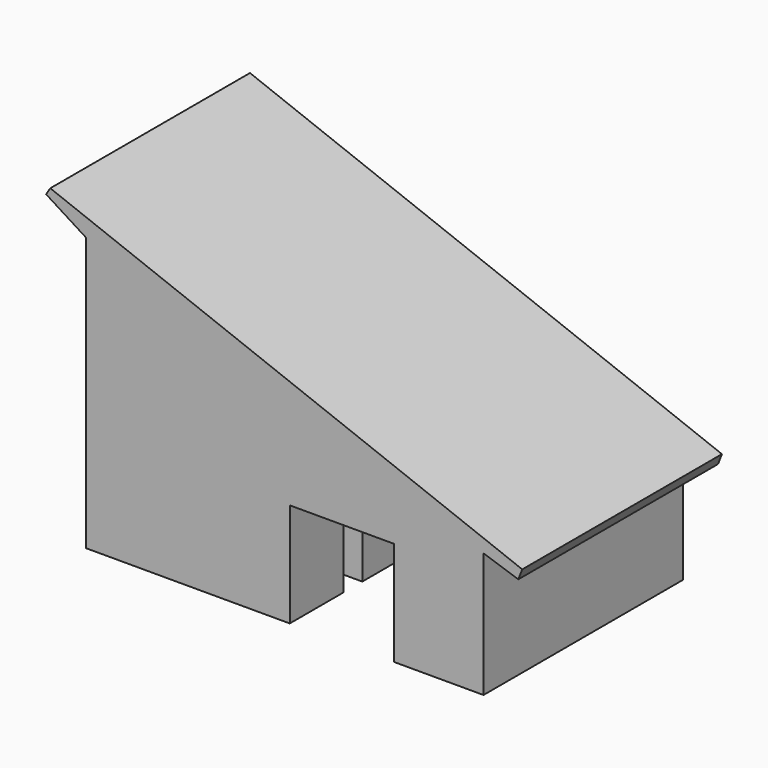
from build123d import *

# Parameters (mm, degrees)
F0_W     = 222.1541649566
F0_H     = 100
F0_W_2   = 395.4195475671
F0_W_3   = 188.4643873005
F0_W_4   = 100
F0_H_2   = 361.5790828629
F0_H_3   = 156.8592581168
F0_H_4   = 152.8593497919
F0_W_5   = 170.2914773738
F0_W_6   = 779.0951247443
F0_H_5   = 292.5978301498
F1_DEPTH = 500
F2_W     = 1910.4056636256
F2_H     = 1200
F3_DEPTH = 100
F5_DEPTH = 1200


with BuildPart() as f1:
    # F0 (on Top) → F1 (new body)
    with BuildSketch(Plane.XY):
        Polygon((-1039.4755020642, -481.5616590203), (-939.4755020642, -481.5616590203), (-939.4755020642, 0), (-939.4755020642, 100), (-939.4755020642, 518.4383409797), (-1039.4755020642, 518.4383409797), align=None)
        Polygon((-710.1491273506, -481.5616590203), (-939.4755020642, -481.5616590203), (-1039.4755020642, -481.5616590203), (-1039.4755020642, -581.5616590203), (-710.1491273506, -581.5616590203), align=None)
        Polygon((-1039.4755020642, 618.4383409797), (-1039.4755020642, 518.4383409797), (-939.4755020642, 518.4383409797), (-659.1245005101, 518.4383409797), (-659.1245005101, 618.4383409797), align=None)
        with Locations((-548.0474180319, 568.4383409797)):
            Rectangle(F0_W, F0_H)
        Polygon((-436.9703355536, 618.4383409797), (-436.9703355536, 518.4383409797), (-160.3803773199, 518.4383409797), (-60.3803773199, 518.4383409797), (-60.3803773199, 618.4383409797), (-81.4295849381, 618.4383409797), align=None)
        with Locations((137.3293964637, 568.4383409797)):
            Rectangle(F0_W_2, F0_H)
        with Locations((429.2713638974, 568.4383409797)):
            Rectangle(F0_W_3, F0_H)
        Polygon((523.5035575476, 618.4383409797), (523.5035575476, 518.4383409797), (770.9301615614, 518.4383409797), (870.9301615614, 518.4383409797), (870.9301615614, 618.4383409797), align=None)
        with Locations((820.9301615614, 337.6487995483)):
            Rectangle(F0_W_4, F0_H_2)
        with Locations((820.9301615614, 78.4296290584)):
            Rectangle(F0_W_4, F0_H_3)
        with Locations((820.9301615614, -76.429674896)):
            Rectangle(F0_W_4, F0_H_4)
        Polygon((770.9301615614, -481.5616590203), (770.9301615614, -581.5616590203), (870.9301615614, -581.5616590203), (870.9301615614, -170.4701158022), (870.9301615614, -152.8593497919), (770.9301615614, -152.8593497919), align=None)
        Polygon((439.6196226801, -499.1724250305), (439.6196226801, -581.5616590203), (770.9301615614, -581.5616590203), (770.9301615614, -481.5616590203), (539.6196226801, -481.5616590203), (539.6196226801, -236.3492257267), (439.6196226801, -236.3492257267), (439.6196226801, -481.5616590203), align=None)
        Polygon((-160.3803773199, -258.3257411009), (-160.3803773199, -481.5616590203), (-160.3803773199, -508.6633241055), (-160.3803773199, -581.5616590203), (-60.3803773199, -581.5616590203), (-60.3803773199, -258.3257411009), align=None)
        with Locations((-625.0033886637, -531.5616590203)):
            Rectangle(F0_W_5, F0_H)
        with Locations((-549.927939692, 50)):
            Rectangle(F0_W_6, F0_H)
        Polygon((-160.3803773199, -481.5616590203), (-539.8576499768, -481.5616590203), (-539.8576499768, -581.5616590203), (-160.3803773199, -581.5616590203), (-160.3803773199, -508.6633241055), align=None)
        Polygon((-160.3803773199, 100), (-160.3803773199, 0), (-160.3803773199, -145.845679975), (-60.3803773199, -145.845679975), (-60.3803773199, 100), align=None)
        with Locations((-110.3803773199, 372.1394259048)):
            Rectangle(F0_W_4, F0_H_5)
    extrude(amount=F1_DEPTH)

    # F2 (on face) → F3 (join)
    with BuildSketch(Plane.XY.offset(500)):
        with Locations((-84.2726702514, 18.4383409797)):
            Rectangle(F2_W, F2_H)
    extrude(amount=F3_DEPTH)

    # F4 (on face) → F5 (join)
    with BuildSketch(Plane.XZ.offset(581.5616590203)):
        Polygon((-1039.4755020642, 1188.9448165894), (-1039.4755020642, 600), (870.9301615614, 600), (1038.4503075273, 544.0466226834), (1057.0495128632, 592.2645926476), (-1211.7080801369, 1467.3965893042), (-1231.8549156189, 1435.4420900345), (-1039.4755020642, 1314.1497373581), align=None)
    extrude(amount=-F5_DEPTH)


solid = f1.part
